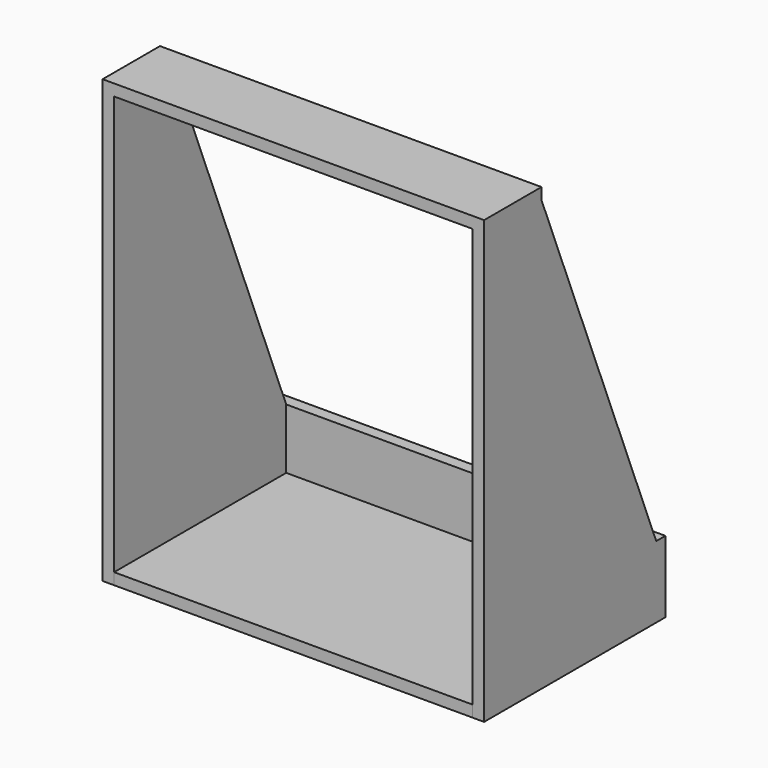
from build123d import *

# Parameters (mm, degrees)
F0_W     = 500
F0_H     = 300
F1_DEPTH = 16
F2_W     = 300
F2_H     = 100
F3_DEPTH = 266
F4_DEPTH = 16
F5_DEPTH = 250
F6_DEPTH = 16
F7_W     = 532
F7_H     = 100
F8_DEPTH = 16


with BuildPart() as f1:
    # F0 (on Top) → F1 (new body)
    with BuildSketch(Plane.XY):
        Rectangle(F0_W, F0_H)
        Rectangle(F0_W, F0_H)
    extrude(amount=F1_DEPTH)

    # F2 (on Right) → F3 (join, symmetric)
    with BuildSketch(Plane.YZ):
        Polygon((-150.0342194658, 600), (-150.0342194658, 100), (149.9657805342, 100), (-50.0342194658, 600), align=None)
        with Locations((-0.0342194658, 50)):
            Rectangle(F2_W, F2_H)
    extrude(amount=F3_DEPTH, both=True)

    # F4 (add): a face of the model
    f4_faces = [f1.faces().sort_by_distance(p)[0] for p in [
        (0, -100.0342194658, 600),
    ]]
    extrude(f4_faces, amount=F4_DEPTH)

    # F2 (on Right) → F5 (cut, symmetric)
    with BuildSketch(Plane.YZ):
        with Locations((-0.0342194658, 50)):
            Rectangle(F2_W, F2_H)
        Polygon((-150.0342194658, 600), (-150.0342194658, 100), (149.9657805342, 100), (-50.0342194658, 600), align=None)
    extrude(amount=F5_DEPTH, both=True, mode=Mode.SUBTRACT)

    # F0 (on Top) → F6 (join)
    with BuildSketch(Plane.XY):
        Rectangle(F0_W, F0_H)
    extrude(amount=F6_DEPTH)

    # F7 (on face) → F8 (join)
    with BuildSketch(Plane(origin=(0, 149.9657805342, 0), x_dir=(-1, 0, 0), z_dir=(0, 1, 0))):
        with Locations((0, 50)):
            Rectangle(F7_W, F7_H)
    extrude(amount=F8_DEPTH)


solid = f1.part
